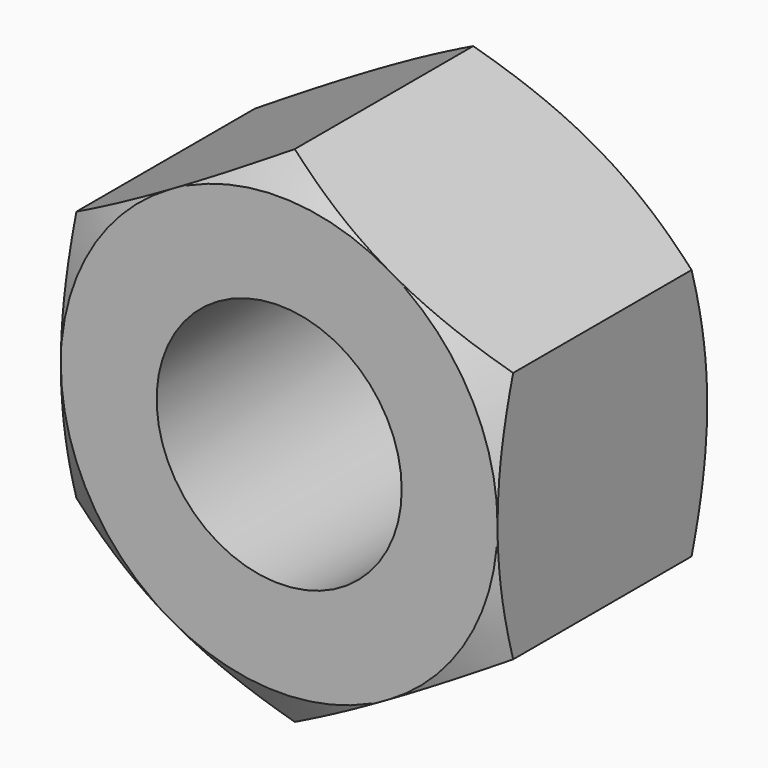
from build123d import *

# Parameters (mm, degrees)
F0_R     = 128.27
F1_DEPTH = 274.32
F6_SIZE  = 5.08


with BuildPart() as f1:
    # F0 (on Front) → F1 (new body)
    with BuildSketch(Plane.XZ):
        Polygon((228.6, -131.982272), (228.6, 131.982272), (0, 263.964543), (-228.6, 131.982272), (-228.6, -131.982272), (0, -263.964543), align=None)
        Circle(F0_R, mode=Mode.SUBTRACT)
    extrude(amount=F1_DEPTH)


with BuildPart() as f2_1:
    # F2: copy of F1
    add(f1.part)

    # F4 (on Top) → F5 (revolve, cut)
    with BuildSketch(Plane.XY):
        Polygon((435.953124, -154.604618), (228.6, -274.32), (435.953124, -274.32), align=None)
        Polygon((228.6, 0), (435.953124, -119.715382), (435.953124, 0), align=None)
    revolve(axis=Axis((0, -137.16, 0), (0, 1, 0)), mode=Mode.SUBTRACT)

    # F6
    f6_edges = [f2_1.edges().sort_by_distance(p)[0] for p in [
        (-128.27, 0, 0),
    ]]
    chamfer(f6_edges, length=F6_SIZE)


solid = f2_1.part
